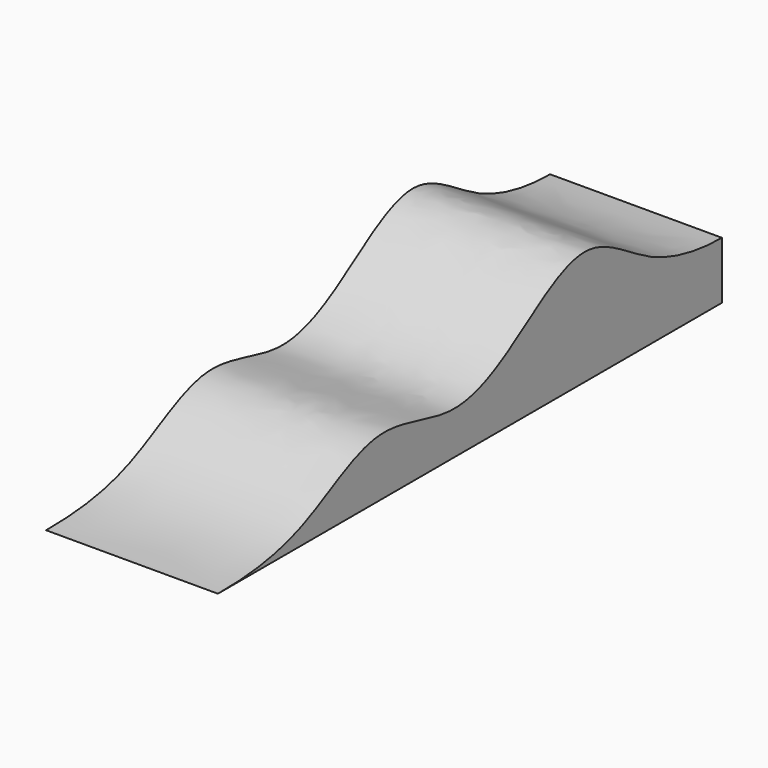
from build123d import *

# Parameters (mm, degrees)
F1_DEPTH = 1828.8


with BuildPart() as f1:
    # F0 (on Right) → F1 (new body)
    with BuildSketch(Plane.YZ):
        with BuildLine():
            add(Edge.make_bspline(
                [(-1124.0711945431, -3108.8686228842), (-726.563526848, -3108.8686228842), (14.8519425371, -3035.9539561507), (974.0522586621, -2295.4326670038), (1976.7509176185, -2789.6540050073), (2794.1922553121, -2425.1236330631), (3760.9967527287, -1622.2505612051), (4602.3408307221, -2394.8472242153), (5297.0809936523, -2499.4308948517), (5581.5288054569, -2499.2686228842)],
                knots=[0, 0, 0, 0, 0.1516473927, 0.3003773917, 0.439953073, 0.5725099643, 0.7201850165, 0.8605745362, 1, 1, 1, 1], degree=3))
            Line((-1124.0711945431, -3108.8686228842), (5581.5288054569, -3108.8686228842))
            Line((5581.5288054569, -3108.8686228842), (5581.5288054569, -2499.2686228842))
        make_face()
    extrude(amount=F1_DEPTH)


solid = f1.part
